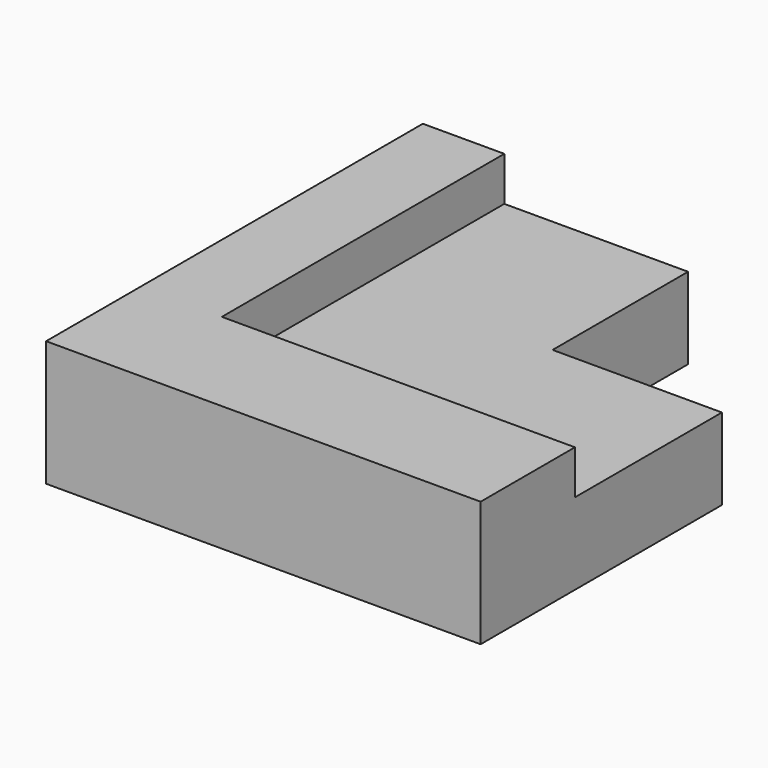
from build123d import *

# Parameters (mm, degrees)
F1_DEPTH = 20.55
F3_DEPTH = 38
F4_W     = 202.725
F4_H     = 2
F5_DEPTH = 58.551


with BuildPart() as f1:
    # F0 (on Top) → F1 (new body)
    with BuildSketch(Plane.XY):
        Polygon((-63.3625, 110.8625), (-101.3625, 110.8625), (-101.3625, -110.8625), (101.3625, -110.8625), (101.3625, -53.8625), (-63.3625, -53.8625), align=None)
    extrude(amount=F1_DEPTH)

    # F2 (on face) → F3 (join)
    with BuildSketch(Plane(origin=(0, 0, 0), x_dir=(1, 0, 0), z_dir=(0, 0, -1))):
        Polygon((101.3625, -31.8625), (101.3625, 110.8625), (-101.3625, 110.8625), (-101.3625, -110.8625), (22.3625, -110.8625), (22.3625, -31.8625), align=None)
    extrude(amount=F3_DEPTH)

    # F4 (on face) → F5 (cut, through all)
    with BuildSketch(Plane.XY.offset(20.55)):
        with Locations((0, -109.8625)):
            Rectangle(F4_W, F4_H)
    extrude(amount=-F5_DEPTH, mode=Mode.SUBTRACT)


solid = f1.part
